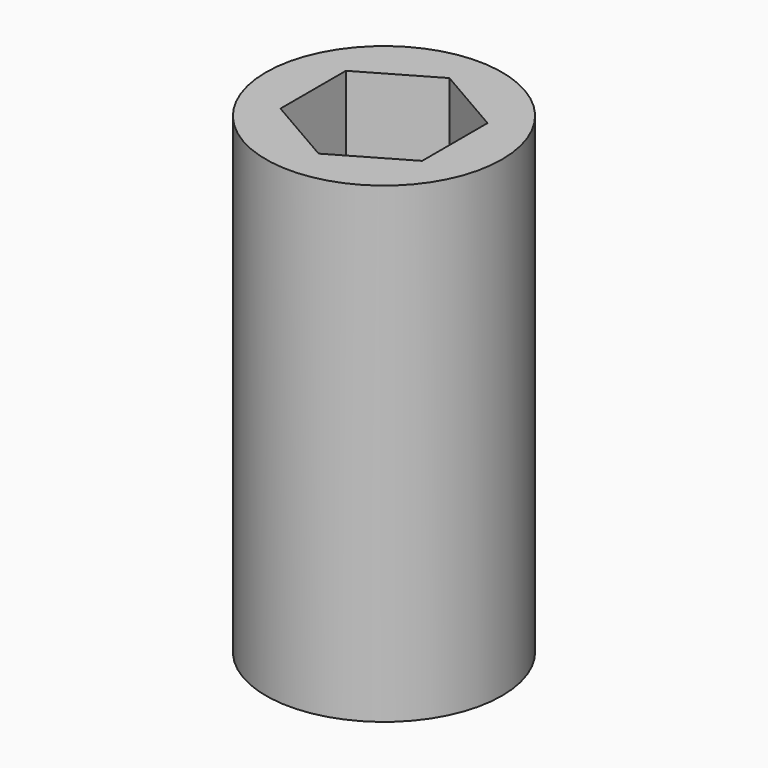
from build123d import *

# Parameters (mm, degrees)
F0_R     = 2.5
F1_DEPTH = 10
F3_DEPTH = 5
F5_D     = 2
F5_DEPTH = 1
F5_TIP   = 0.600860619


with BuildPart() as f1:
    # F0 (on Top) → F1 (new body)
    with BuildSketch(Plane.XY):
        Circle(F0_R)
    extrude(amount=F1_DEPTH)

    # F2 (on face) → F3 (cut)
    with BuildSketch(Plane.XY.offset(10)):
        Polygon((1.5, -0.8660254038), (1.5, 0.8660254038), (0, 1.7320508076), (-1.5, 0.8660254038), (-1.5, -0.8660254038), (0, -1.7320508076), align=None)
    extrude(amount=-F3_DEPTH, mode=Mode.SUBTRACT)

    # F5
    with Locations(Plane(origin=(0, 0, 0), x_dir=(1, 0, 0), z_dir=(0, 0, -1))):
        with Locations((0, 0)):
            Hole(F5_D / 2, depth=F5_DEPTH)
            with Locations((0, 0, -(F5_DEPTH + F5_TIP / 2))):  # 118° drill point
                Cone(0, F5_D / 2, F5_TIP, mode=Mode.SUBTRACT)


solid = f1.part
